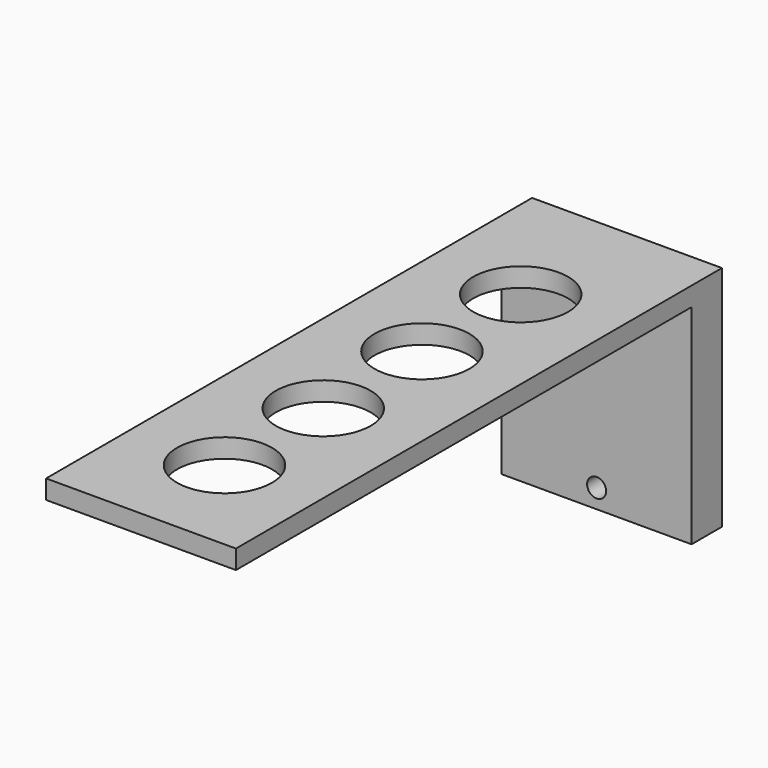
from build123d import *

# Parameters (mm, degrees)
F0_W     = 127
F0_H     = 152.4
F0_R     = 6.35
F1_DEPTH = 25.4
F2_W     = 127
F2_H     = 12.7
F3_DEPTH = 381
F4_R     = 31.75
F5_DEPTH = 25.4


with BuildPart() as f1:
    # F0 (on Front) → F1 (new body)
    with BuildSketch(Plane.XZ):
        with Locations((0, 63.5)):
            Rectangle(F0_W, F0_H)
        Circle(F0_R, mode=Mode.SUBTRACT)
    extrude(amount=F1_DEPTH)

    # F2 (on face) → F3 (join)
    with BuildSketch(Plane.XZ.offset(25.4)):
        with Locations((0, 133.35)):
            Rectangle(F2_W, F2_H)
    extrude(amount=F3_DEPTH)

    # F4 (on face) → F5 (cut)
    with BuildSketch(Plane.XY.offset(139.7)):
        with Locations((0, -88.9)):
            Circle(F4_R)
        with Locations((0, -171.45)):
            Circle(F4_R)
        with Locations((0, -254)):
            Circle(F4_R)
        with Locations((0, -336.55)):
            Circle(F4_R)
    extrude(amount=-F5_DEPTH, mode=Mode.SUBTRACT)


solid = f1.part
